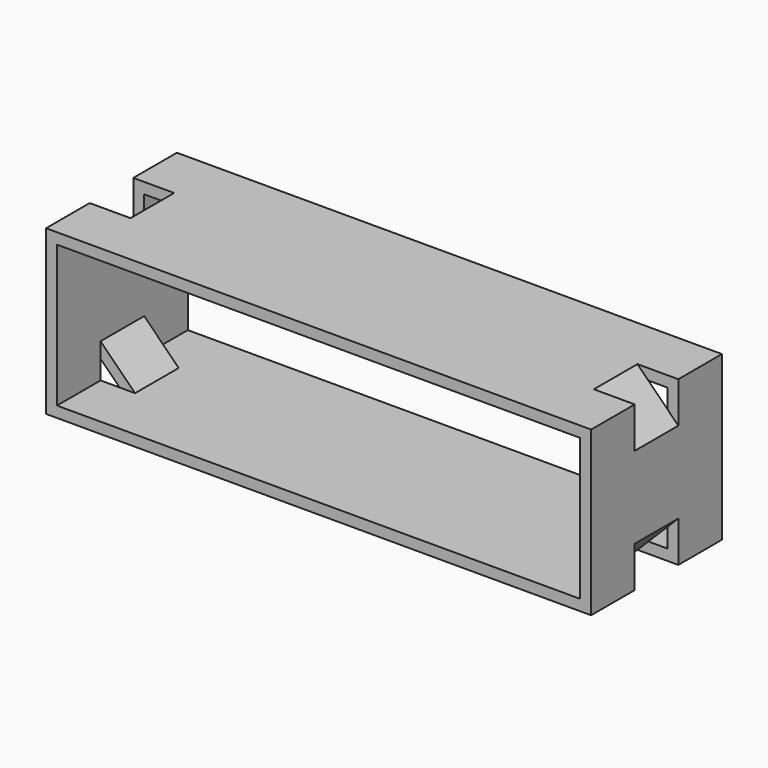
from build123d import *

# Parameters (mm, degrees)
F0_W     = 1000
F0_H     = 300
F0_W_2   = 960
F0_H_2   = 260
F1_DEPTH = 100
F3_DEPTH = 100
F4_W     = 1000
F4_H     = 300
F4_W_2   = 960
F4_H_2   = 260
F5_DEPTH = 100


with BuildPart() as f1:
    # F0 (on Front) → F1 (new body)
    with BuildSketch(Plane.XZ):
        with Locations((500, 150)):
            Rectangle(F0_W, F0_H)
        with Locations((500, 150)):
            Rectangle(F0_W_2, F0_H_2, mode=Mode.SUBTRACT)
    extrude(amount=F1_DEPTH)

    # F2 (on Front) → F3 (join)
    with BuildSketch(Plane.XZ):
        Polygon((0, 225), (0, 75), (75, 0), (925, 0), (1000, 75), (1000, 225), (925, 300), (75, 300), align=None)
        Polygon((20, 83.284271), (20, 216.715729), (83.284271, 280), (916.715729, 280), (980, 216.715729), (980, 83.284271), (916.715729, 20), (83.284271, 20), align=None, mode=Mode.SUBTRACT)
    extrude(amount=-F3_DEPTH)

    # F4 (on face) → F5 (join)
    with BuildSketch(Plane(origin=(0, 100, 0), x_dir=(-1, 0, 0), z_dir=(0, 1, 0))):
        with Locations((-500, 150)):
            Rectangle(F4_W, F4_H)
        with Locations((-500, 150)):
            Rectangle(F4_W_2, F4_H_2, mode=Mode.SUBTRACT)
    extrude(amount=F5_DEPTH)


solid = f1.part
